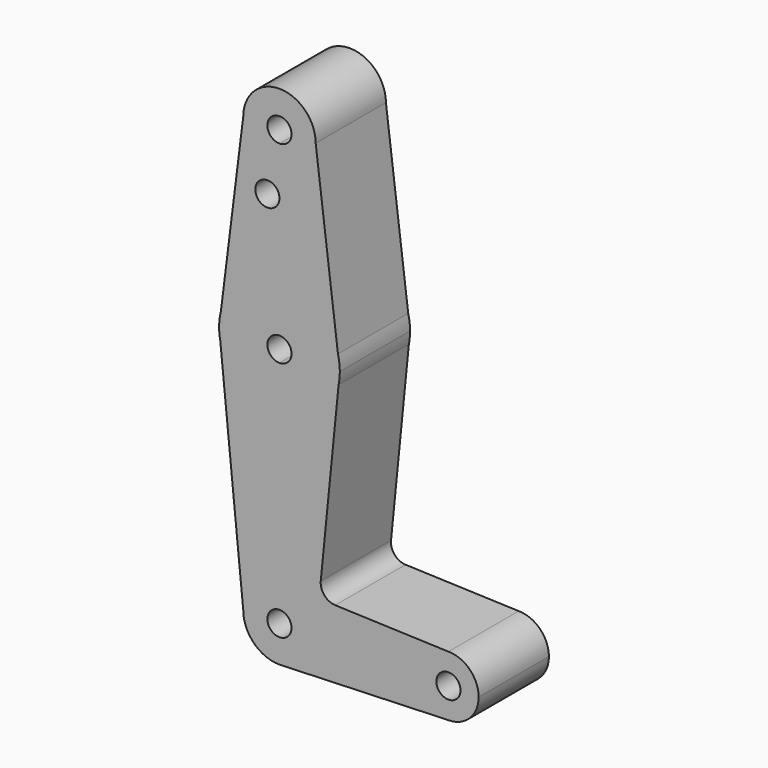
from build123d import *

# Parameters (mm, degrees)
F0_R     = 3.175
F1_DEPTH = 23.1


with BuildPart() as f1:
    # F0 (on Front) → F1 (new body)
    with BuildSketch(Plane.XZ):
        with BuildLine():
            ThreePointArc((0, 3.175), (2.2450640303, 2.2450640303), (3.175, 0))
            Line((3.175, 0), (9.525, 0))
            ThreePointArc((9.525, 0), (6.9712901065, 6.4905114784), (0.6794904459, 9.5007324841))
            Line((0.6794904459, 9.5007324841), (0, 9.525))
            Line((0, 9.525), (0, 3.175))
        make_face()
        with BuildLine():
            Line((0, 98.4375029802), (0, 79.375))
            ThreePointArc((0, 79.375), (9.7463072395, 76.0309664508), (15.3865384615, 67.4076923077))
            Line((15.3865384615, 67.4076923077), (9.525, 114.3))
            ThreePointArc((9.525, 114.3), (6.7351920908, 107.5648079092), (0, 104.775))
            Line((0, 104.775), (0, 98.4375029802))
        make_face()
        with BuildLine():
            ThreePointArc((0.6794904459, 9.5007324841), (6.9712901065, 6.4905114784), (9.525, 0))
            Line((9.525, 0), (10.4402135231, 9.1521352313))
            Line((10.4402135231, 9.1521352313), (0.6794904459, 9.5007324841))
        make_face()
        with BuildLine():
            Line((9.525, 0), (3.175, 0))
            ThreePointArc((3.175, 0), (-2.2450640303, -2.2450640303), (0, 3.175))
            Line((0, 3.175), (0, 9.525))
            ThreePointArc((0, 9.525), (-6.7351920908, 6.7351920908), (-9.525, 0))
            ThreePointArc((-9.525, 0), (-6.7351920908, -6.7351920908), (0, -9.525))
            Line((0, -9.525), (0.6794904459, -9.5007324841))
            ThreePointArc((0.6794904459, -9.5007324841), (6.9712901065, -6.4905114784), (9.525, 0))
        make_face()
        with BuildLine():
            Line((10.4402135231, 9.1521352313), (9.525, 0))
            Line((9.525, 0), (36.5125, 0))
            ThreePointArc((36.5125, 0), (38.8373399243, 5.6126600757), (44.45, 7.9375))
            Line((44.45, 7.9375), (14.6753931672, 9.0008788155))
            Line((14.6753931672, 9.0008788155), (10.4402135231, 9.1521352313))
        make_face()
        with BuildLine():
            ThreePointArc((44.45, 7.9375), (38.8373399243, 5.6126600757), (36.5125, 0))
            ThreePointArc((36.5125, 0), (38.8373399243, -5.6126600757), (44.45, -7.9375))
            ThreePointArc((44.45, -7.9375), (50.0626600757, -5.6126600757), (52.3875, 0))
            ThreePointArc((52.3875, 0), (50.0626600757, 5.6126600757), (44.45, 7.9375))
        make_face()
        with BuildLine():
            ThreePointArc((47.625, 0), (44.45, -3.175), (41.275, 0))
            ThreePointArc((41.275, 0), (44.45, 3.175), (47.625, 0))
        make_face(mode=Mode.SUBTRACT)
        with BuildLine():
            ThreePointArc((-9.525, 0), (-6.7351920908, 6.7351920908), (0, 9.525))
            Line((0, 9.525), (0, 47.625))
            ThreePointArc((0, 47.625), (-10.0526499203, 51.2134278751), (-15.5606435644, 60.3564356436))
            Line((-15.5606435644, 60.3564356436), (-9.525, 0))
        make_face()
        with BuildLine():
            ThreePointArc((-15.5606435644, 60.3564356436), (-10.0526499203, 51.2134278751), (0, 47.625))
            Line((0, 47.625), (0, 60.325))
            ThreePointArc((0, 60.325), (-3.175, 63.5), (0, 66.675))
            Line((0, 66.675), (0, 79.375))
            ThreePointArc((0, 79.375), (-9.7463072395, 76.0309664508), (-15.3865384615, 67.4076923077))
            Line((-15.3865384615, 67.4076923077), (-15.875, 63.5))
            Line((-15.875, 63.5), (-15.5606435644, 60.3564356436))
        make_face()
        with BuildLine():
            Line((36.5125, 0), (9.525, 0))
            ThreePointArc((9.525, 0), (6.9712901065, -6.4905114784), (0.6794904459, -9.5007324841))
            Line((0.6794904459, -9.5007324841), (44.45, -7.9375))
            ThreePointArc((44.45, -7.9375), (38.8373399243, -5.6126600757), (36.5125, 0))
        make_face()
        with BuildLine():
            Line((0, 60.325), (0, 47.625))
            ThreePointArc((0, 47.625), (10.0526499203, 51.2134278751), (15.5606435644, 60.3564356436))
            Line((15.5606435644, 60.3564356436), (15.875, 63.5))
            Line((15.875, 63.5), (15.3865384615, 67.4076923077))
            ThreePointArc((15.3865384615, 67.4076923077), (9.7463072395, 76.0309664508), (0, 79.375))
            Line((0, 79.375), (0, 66.675))
            ThreePointArc((0, 66.675), (2.2450640303, 65.7450640303), (3.175, 63.5))
            ThreePointArc((3.175, 63.5), (2.2450640303, 61.2549359697), (0, 60.325))
        make_face()
        with BuildLine():
            ThreePointArc((-15.3865384615, 67.4076923077), (-9.7463072395, 76.0309664508), (0, 79.375))
            Line((0, 79.375), (0, 98.4375029802))
            Line((0, 98.4375029802), (0, 104.775))
            ThreePointArc((0, 104.775), (-6.7351920908, 107.5648079092), (-9.525, 114.3))
            Line((-9.525, 114.3), (-15.3865384615, 67.4076923077))
        make_face()
        with Locations((-3.175, 98.4375029802)):
            Circle(F0_R, mode=Mode.SUBTRACT)
        with BuildLine():
            Line((0, 47.625), (0, 9.525))
            ThreePointArc((0, 9.525), (0.3399618281, 9.5189311877), (0.6794904459, 9.5007324841))
            Line((0.6794904459, 9.5007324841), (10.4402135231, 9.1521352313))
            Line((10.4402135231, 9.1521352313), (10.8618983422, 13.3689834224))
            Line((10.8618983422, 13.3689834224), (15.5606435644, 60.3564356436))
            ThreePointArc((15.5606435644, 60.3564356436), (10.0526499203, 51.2134278751), (0, 47.625))
        make_face()
        with BuildLine():
            ThreePointArc((9.525, 114.3), (0, 123.825), (-9.525, 114.3))
            ThreePointArc((-9.525, 114.3), (-6.7351920908, 107.5648079092), (0, 104.775))
            ThreePointArc((0, 104.775), (6.7351920908, 107.5648079092), (9.525, 114.3))
        make_face()
        with BuildLine():
            ThreePointArc((3.175, 114.3), (2.2450640303, 112.0549359697), (0, 111.125))
            ThreePointArc((0, 111.125), (-2.2450640303, 116.5450640303), (3.175, 114.3))
        make_face(mode=Mode.SUBTRACT)
        with BuildLine():
            Line((15.875, 63.5), (15.5606435644, 60.3564356436))
            ThreePointArc((15.5606435644, 60.3564356436), (15.7962153946, 61.9203784605), (15.875, 63.5))
        make_face()
        with BuildLine():
            ThreePointArc((0.6794904459, 9.5007324841), (0.3399618281, 9.5189311877), (0, 9.525))
            Line((0, 9.525), (0.6794904459, 9.5007324841))
        make_face()
        with BuildLine():
            ThreePointArc((0, -9.525), (0.3399618281, -9.5189311877), (0.6794904459, -9.5007324841))
            Line((0.6794904459, -9.5007324841), (0, -9.525))
        make_face()
        with BuildLine():
            Line((10.8618983422, 13.3689834224), (10.4402135231, 9.1521352313))
            Line((10.4402135231, 9.1521352313), (14.6753931672, 9.0008788155))
            ThreePointArc((14.6753931672, 9.0008788155), (11.822784318, 10.3591638769), (10.8618983422, 13.3689834224))
        make_face()
        with BuildLine():
            Line((15.3865384615, 67.4076923077), (15.875, 63.5))
            ThreePointArc((15.875, 63.5), (15.7524112928, 65.4690514116), (15.3865384615, 67.4076923077))
        make_face()
        with BuildLine():
            ThreePointArc((-15.3865384615, 67.4076923077), (-15.7524112928, 65.4690514116), (-15.875, 63.5))
            Line((-15.875, 63.5), (-15.3865384615, 67.4076923077))
        make_face()
        with BuildLine():
            ThreePointArc((-15.875, 63.5), (-15.7962153946, 61.9203784605), (-15.5606435644, 60.3564356436))
            Line((-15.5606435644, 60.3564356436), (-15.875, 63.5))
        make_face()
    extrude(amount=F1_DEPTH)


solid = f1.part
